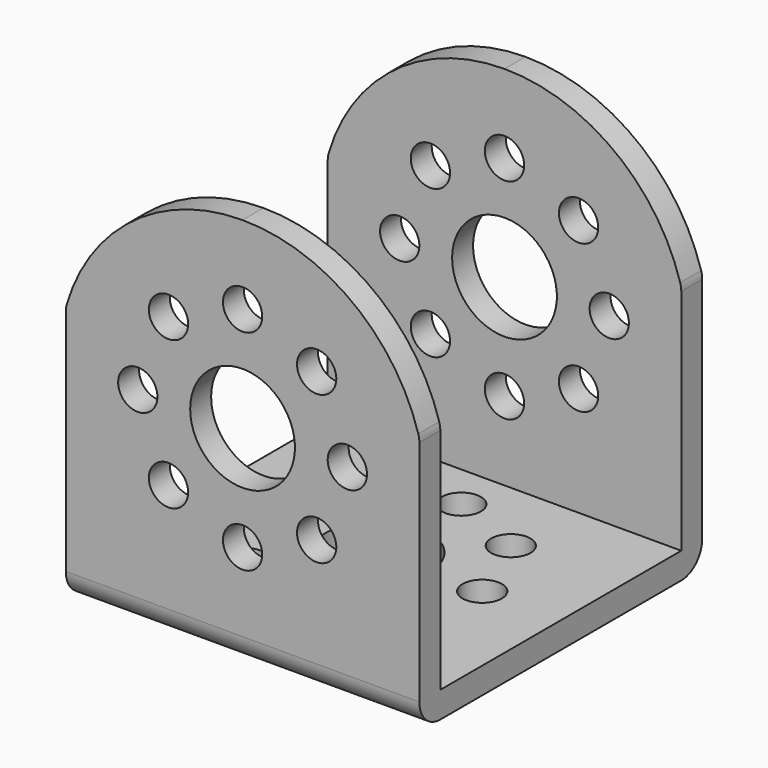
from build123d import *

# Parameters (mm, degrees)
F1_DEPTH = 27
F2_R     = 1.5
F2_R_2   = 4
F3_DEPTH = 27.001
F5_DEPTH = 27.001
F6_R     = 2
F7_R     = 4
F7_R_2   = 1.5
F8_DEPTH = 25


with BuildPart() as f1:
    # F0 (on Right) → F1 (new body)
    with BuildSketch(Plane.YZ):
        Polygon((0, 30), (0, 0), (27, 0), (27, 30), (25, 30), (25, 2), (2, 2), (2, 30), align=None)
    extrude(amount=F1_DEPTH)

    # F2 (on face) → F3 (cut, through all)
    with BuildSketch(Plane(origin=(0, 27, 0), x_dir=(-1, 0, 0), z_dir=(0, 1, 0))):
        with Locations((-13.5, 24)):
            Circle(F2_R)
        with Locations((-7.8431457505, 21.6568542495)):
            Circle(F2_R)
        with Locations((-5.5, 16)):
            Circle(F2_R)
        with Locations((-7.8431457505, 10.3431457505)):
            Circle(F2_R)
        with Locations((-13.5, 8)):
            Circle(F2_R)
        with Locations((-19.1568542495, 10.3431457505)):
            Circle(F2_R)
        with Locations((-21.5, 16)):
            Circle(F2_R)
        with Locations((-13.5, 16)):
            Circle(F2_R_2)
        with Locations((-19.1568542495, 21.6568542495)):
            Circle(F2_R)
    extrude(amount=-F3_DEPTH, mode=Mode.SUBTRACT)

    # F4 (on face) → F5 (cut, through all)
    with BuildSketch(Plane(origin=(0, 27, 0), x_dir=(-1, 0, 0), z_dir=(0, 1, 0))):
        with BuildLine():
            ThreePointArc((-27, 19.7080992435), (-21.9878327796, 27.1335840907), (-13.5, 30))
            Line((-13.5, 30), (-27, 30))
            Line((-27, 30), (-27, 19.7080992435))
        make_face()
        with BuildLine():
            ThreePointArc((-13.5, 30), (-5.0121672204, 27.1335840907), (0, 19.7080992435))
            Line((0, 19.7080992435), (0, 30))
            Line((0, 30), (-13.5, 30))
        make_face()
    extrude(amount=-F5_DEPTH, mode=Mode.SUBTRACT)

    # F6
    f6_edges = [f1.edges().sort_by_distance(p)[0] for p in [
        (27, 1, 19.708099),
        (0, 1, 19.708099),
        (0, 26, 19.708099),
        (27, 26, 19.708099),
        (13.5, 27, 0),
        (13.5, 0, 0),
    ]]
    fillet(f6_edges, radius=F6_R)

    # F7 (on face) → F8 (cut)
    with BuildSketch(Plane(origin=(0, 0, 0), x_dir=(1, 0, 0), z_dir=(0, 0, -1))):
        with Locations((13, -13.5)):
            Circle(F7_R)
        with Locations((21, -13.5)):
            Circle(F7_R_2)
        with Locations((18.6568542495, -19.1568542495)):
            Circle(F7_R_2)
        with Locations((13, -21.5)):
            Circle(F7_R_2)
        with Locations((7.3431457505, -19.1568542495)):
            Circle(F7_R_2)
        with Locations((5, -13.5)):
            Circle(F7_R_2)
        with Locations((7.3431457505, -7.8431457505)):
            Circle(F7_R_2)
        with Locations((13, -5.5)):
            Circle(F7_R_2)
        with Locations((18.6568542495, -7.8431457505)):
            Circle(F7_R_2)
    extrude(amount=-F8_DEPTH, mode=Mode.SUBTRACT)


solid = f1.part
